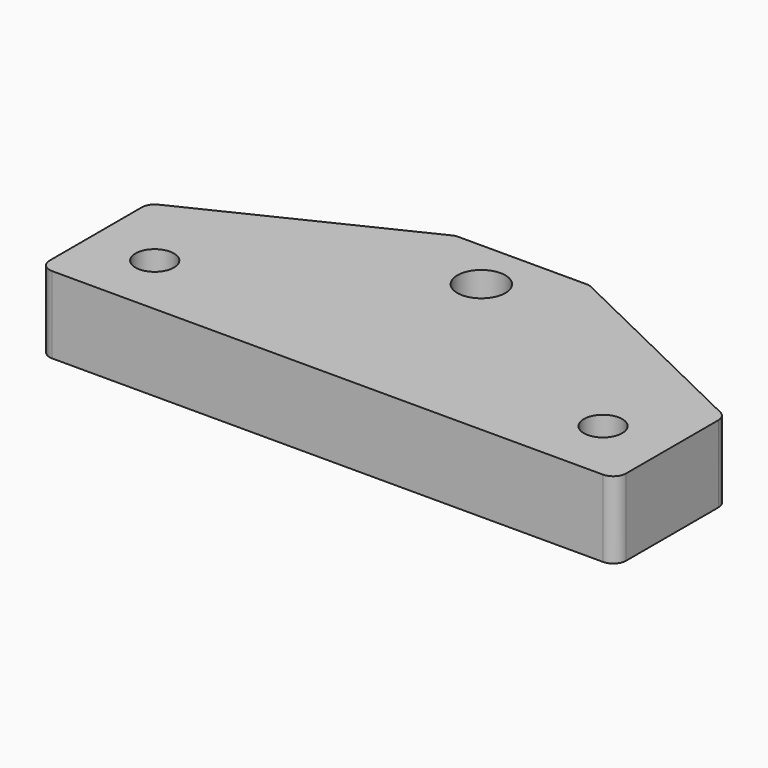
from build123d import *

# Parameters (mm, degrees)
SKETCH_R   = 3
SKETCH_R_2 = 3.75
PAD_DEPTH  = 12


with BuildPart() as part:
    # Sketch → Pad (new body)
    with BuildSketch(Plane.XY):
        with BuildLine():
            Line((-43, -10), (43, -10))
            ThreePointArc((43, -10), (44.414214, -9.414214), (45, -8))
            Line((45, -8), (45, 10))
            ThreePointArc((45, 10), (44.694859, 11.061816), (43.872547, 11.799628))
            Line((10.872547, 27.799628), (43.872547, 11.799628))
            ThreePointArc((10.872547, 27.799628), (10.447629, 27.949264), (10, 28))
            Line((-10, 28), (10, 28))
            ThreePointArc((-10, 28), (-10.447629, 27.949264), (-10.872547, 27.799628))
            Line((-43.872547, 11.799628), (-10.872547, 27.799628))
            ThreePointArc((-43.872547, 11.799628), (-44.694859, 11.061816), (-45, 10))
            Line((-45, -8), (-45, 10))
            ThreePointArc((-45, -8), (-44.414214, -9.414214), (-43, -10))
        make_face()
        with Locations((-35, 0)):
            Circle(SKETCH_R, mode=Mode.SUBTRACT)
        with Locations((35, 0)):
            Circle(SKETCH_R, mode=Mode.SUBTRACT)
        with Locations((0, 20)):
            Circle(SKETCH_R_2, mode=Mode.SUBTRACT)
    extrude(amount=PAD_DEPTH)


solid = part.part
